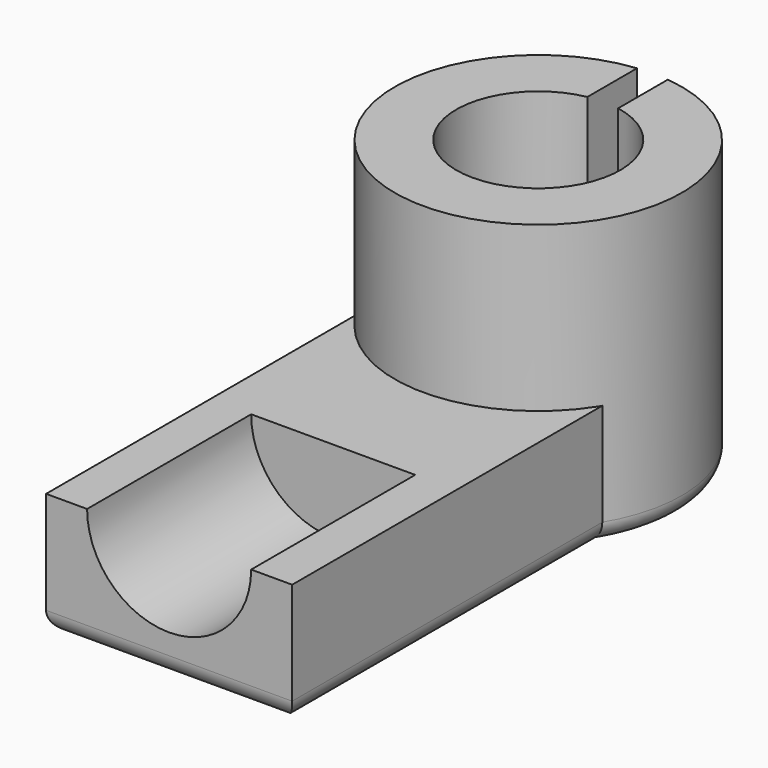
from build123d import *

# Parameters (mm, degrees)
PAD_DEPTH    = 56
FILLET_R     = 4
SKETCH001_W  = 48
SKETCH001_H  = 90
PAD001_DEPTH = 24
SKETCH002_R  = 16
POCKET_DEPTH = 40
FILLET001_R  = 4


with BuildPart() as fillet_body:
    # Sketch → Pad (new body)
    with BuildSketch(Plane.XY):
        with BuildLine():
            ThreePointArc((-3, 27.838822), (0, -28), (3, 27.838822))
            Line((3, 15.716234), (3, 27.838822))
            ThreePointArc((-3, 15.716234), (0, -16), (3, 15.716234))
            Line((-3, 27.838822), (-3, 15.716234))
        make_face()
    extrude(amount=PAD_DEPTH)

    # Fillet
    fillet_edges = [fillet_body.edges().sort_by_distance(p)[0] for p in [
        (0, -28, 0),
    ]]
    fillet(fillet_edges, radius=FILLET_R)


with BuildPart() as fillet001:
    # Sketch001 → Pad001 (new body)
    with BuildSketch(Plane.XY):
        with Locations((0, -45)):
            Rectangle(SKETCH001_W, SKETCH001_H)
    extrude(amount=PAD001_DEPTH)

    # Sketch002 → Pocket (cut)
    with BuildSketch(Plane.XZ.offset(90)):
        with Locations((0, 24)):
            Circle(SKETCH002_R)
    extrude(amount=-POCKET_DEPTH, mode=Mode.SUBTRACT)

    # Fillet001
    fillet001_edges = [fillet001.edges().sort_by_distance(p)[0] for p in [
        (24, -45, 0),
        (0, -90, 0),
        (-24, -45, 0),
    ]]
    fillet(fillet001_edges, radius=FILLET001_R)


solid = Compound([fillet_body.part, fillet001.part])
